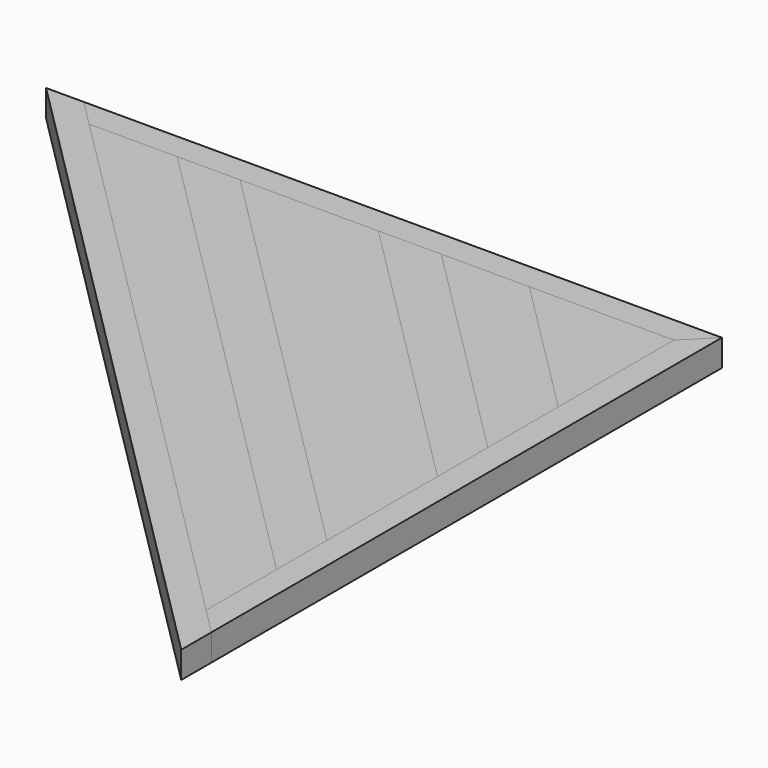
from build123d import *

# Parameters (mm, degrees)
F1_DEPTH = 38.1
F2_DEPTH = 38.1
F3_DEPTH = 38.1
F4_DEPTH = 38.1


with BuildPart() as f1:
    # F0 (on Top) → F1 (new body)
    with BuildSketch(Plane.XY):
        Polygon((38.1, -927.1), (38.1, -873.218463), (0, -835.118463), (-835.118463, 0), (-873.218463, 38.1), (-927.1, 38.1), (0, -889), align=None)
        Polygon((0, -709.394878), (0, -619.592316), (-619.592316, 0), (-709.394878, 0), align=None)
        Polygon((0, -422.026682), (0, -332.22412), (-332.22412, 0), (-422.026682, 0), align=None)
        Polygon((0, -206.500535), (0, 0), (-206.500535, 0), align=None)
    extrude(amount=F1_DEPTH)


with BuildPart() as f2:
    # F0 (on Top) → F2 (new body)
    with BuildSketch(Plane.XY):
        Polygon((-835.118463, 0), (0, -835.118463), (0, -709.394878), (-709.394878, 0), align=None)
        Polygon((0, -619.592316), (0, -422.026682), (-422.026682, 0), (-619.592316, 0), align=None)
        Polygon((0, -332.22412), (0, -206.500535), (-206.500535, 0), (-332.22412, 0), align=None)
    extrude(amount=F2_DEPTH)


with BuildPart() as f3:
    # F0 (on Top) → F3 (new body)
    with BuildSketch(Plane.XY):
        Polygon((-206.500535, 0), (0, 0), (38.1, 38.1), (-873.218463, 38.1), (-835.118463, 0), (-709.394878, 0), (-619.592316, 0), (-422.026682, 0), (-332.22412, 0), align=None)
    extrude(amount=F3_DEPTH)


with BuildPart() as f4:
    # F0 (on Top) → F4 (new body)
    with BuildSketch(Plane.XY):
        Polygon((38.1, 38.1), (0, 0), (0, -206.500535), (0, -332.22412), (0, -422.026682), (0, -619.592316), (0, -709.394878), (0, -835.118463), (38.1, -873.218463), align=None)
    extrude(amount=F4_DEPTH)


solid = Compound([f1.part, f2.part, f3.part, f4.part])
